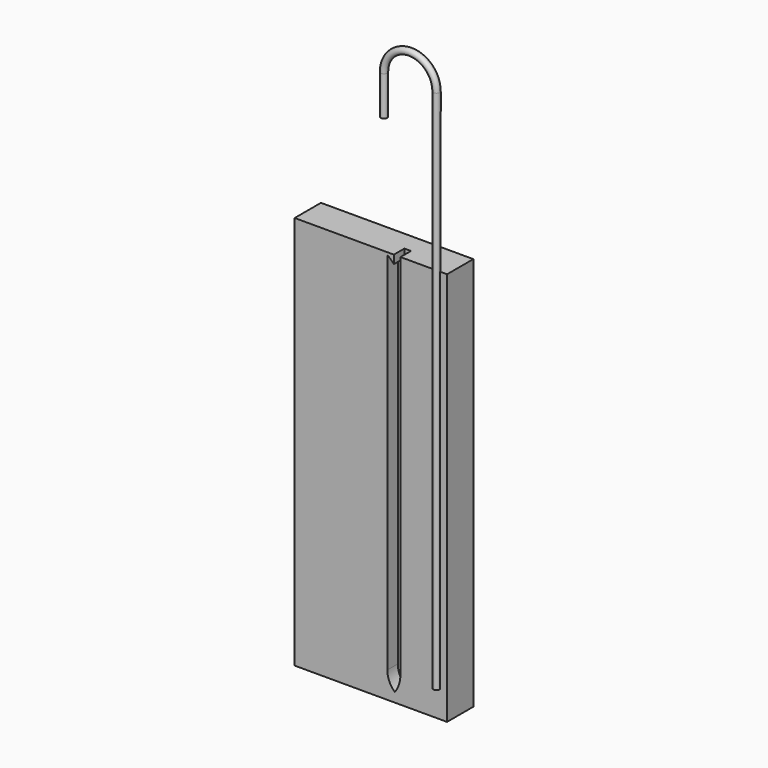
from build123d import *

# Parameters (mm, degrees)
F1_W     = 23.2
F1_H     = 60
F2_DEPTH = 5
F5_DEPTH = 2
F7_R     = 0.5


with BuildPart() as f2:
    # F1 (on Front) → F2 (new body)
    with BuildSketch(Plane.XZ):
        with Locations((0, -14)):
            Rectangle(F1_W, F1_H)
    extrude(amount=-F2_DEPTH)

    # F4 (on face) → F5 (cut)
    with BuildSketch(Plane.XZ):
        with BuildLine():
            Line((4.5032451175, -39.9769037598), (4.5032451175, 12.0230962402))
            Line((4.5032451175, 12.0230962402), (4.5032451175, 16))
            Line((4.5032451175, 16), (3.5, 16))
            Line((3.5, 16), (3.5, 14.7152424996))
            ThreePointArc((3.5, 14.7152424996), (3.0356981489, 15.2086247741), (2.5025880537, 15.6267107751))
            ThreePointArc((2.5025880537, 15.6267107751), (2.5006470354, 15.5158509267), (2.5, 15.4049759751))
            Line((2.5, 15.4049759751), (2.5, -40))
            ThreePointArc((2.5, -40), (2.8023140413, -41.4229562572), (3.6570311485, -42.6000955676))
            ThreePointArc((3.6570311485, -42.6000955676), (4.2859243089, -41.3548841104), (4.5032451175, -39.9769037598))
        make_face()
    extrude(amount=-F5_DEPTH, mode=Mode.SUBTRACT)

    # F8: sweep along a path in F0
    with BuildLine(Plane.XZ) as f8_path:
        Line((2, 34), (2, 40))
        ThreePointArc((2, 40), (6, 44), (10, 40))
        Line((10, 40), (10, -40))
    # F7 (on plane+point) → F8 (sweep)
    with BuildSketch(Plane.XY.offset(34)):
        with Locations((2, 0)):
            Circle(F7_R)
    sweep(path=f8_path.line)


solid = f2.part
